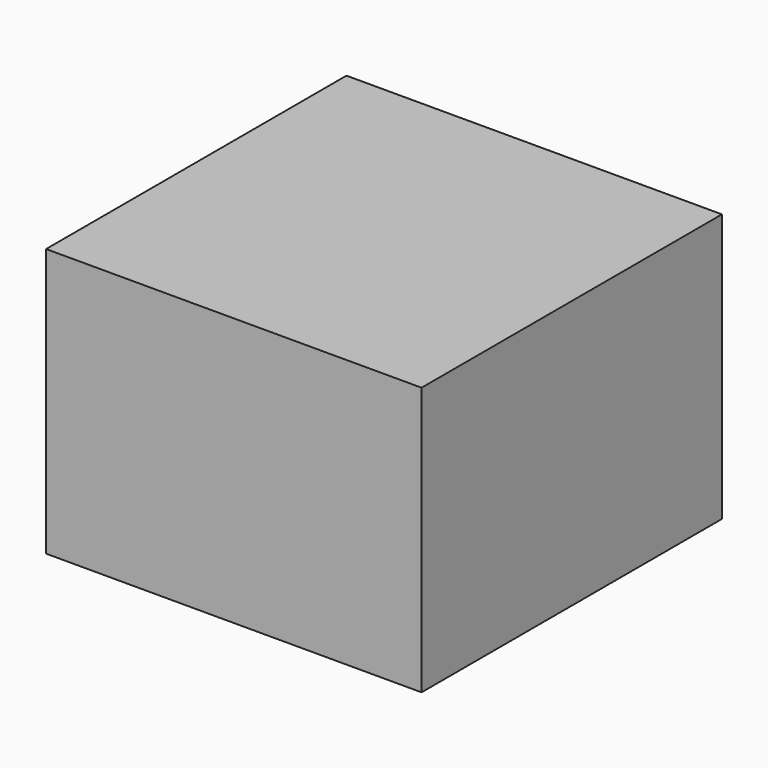
from build123d import *

# Parameters (mm, degrees)
SKETCH_W      = 70
SKETCH_H      = 70
EXTRUDE_DEPTH = 50


with BuildPart() as part:
    # Sketch → Extrude (new body)
    with BuildSketch(Plane.XY):
        Rectangle(SKETCH_W, SKETCH_H)
    extrude(amount=EXTRUDE_DEPTH)


solid = part.part
